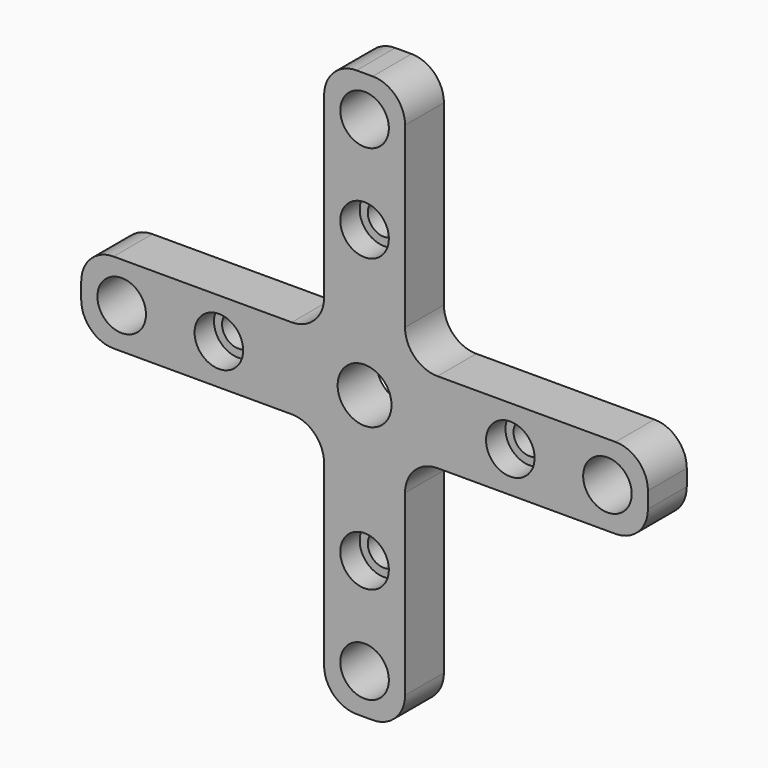
from build123d import *

# Parameters (mm, degrees)
F0_W           = 5
F0_H           = 15
F0_H_2         = 5
F0_R           = 1.663624267
F0_W_2         = 15
F1_DEPTH       = 3
F2_R           = 2
F4_D           = 3
F6_D           = 2
F6_CBORE_D     = 3
F6_CBORE_DEPTH = 1.5


with BuildPart() as f1:
    # F0 (on Front) → F1 (new body)
    with BuildSketch(Plane.XZ):
        with Locations((0, -10)):
            Rectangle(F0_W, F0_H)
        Rectangle(F0_W, F0_H_2)
        Circle(F0_R, mode=Mode.SUBTRACT)
        with Locations((10, 0)):
            Rectangle(F0_W_2, F0_H_2)
        with Locations((-10, 0)):
            Rectangle(F0_W_2, F0_H_2)
        with Locations((0, 10)):
            Rectangle(F0_W, F0_H)
    extrude(amount=F1_DEPTH)

    # F2
    f2_edges = [f1.edges().sort_by_distance(p)[0] for p in [
        (17.5, -1.5, 2.5),
        (17.5, -1.5, -2.5),
        (2.5, -1.5, -17.5),
        (-17.5, -1.5, 2.5),
        (2.5, -1.5, 17.5),
        (-2.5, -1.5, 17.5),
        (-2.5, -1.5, -17.5),
        (-17.5, -1.5, -2.5),
        (-2.5, -1.5, 2.5),
        (2.5, -1.5, -2.5),
        (2.5, -1.5, 2.5),
        (-2.5, -1.5, -2.5),
    ]]
    fillet(f2_edges, radius=F2_R)

    # F4 (through all)
    with Locations(Plane.XZ.offset(3)):
        with Locations((-15, 0), (0, 15), (15, 0), (0, -15)):
            Hole(F4_D / 2)

    # F6 (through all)
    with Locations(Plane.XZ.offset(3)):
        with Locations((0, 9), (9, 0), (0, -9), (-9, 0)):
            CounterBoreHole(F6_D / 2, F6_CBORE_D / 2, F6_CBORE_DEPTH)


solid = f1.part
